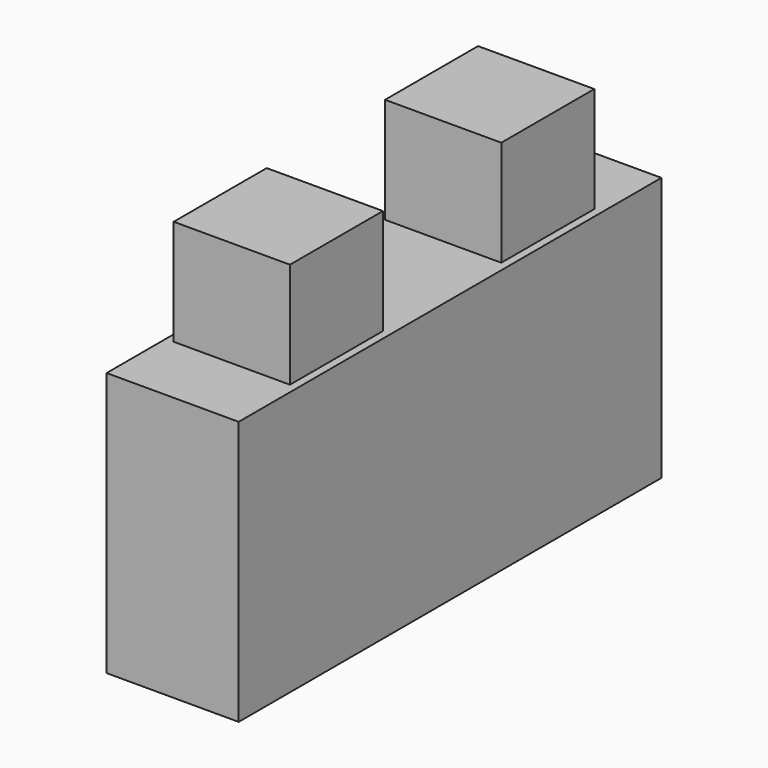
from build123d import *

# Parameters (mm, degrees)
BOX_W             = 10
BOX_H             = 10
BOX_DEPTH         = 10
SKETCH_W          = 4.4
SKETCH_H          = 4.4
PAD_DEPTH         = 4
PAD_FACE1_W       = 10
PAD_FACE1_H       = 10
POCKET_DEPTH      = 2.5
POCKET_FACE3_W    = 10
POCKET_FACE3_H    = 10
POCKET001_DEPTH   = 2.5
POCKET001_FACE6_W = 5
POCKET001_FACE6_H = 10
PAD001_DEPTH      = 10
SKETCH001_W       = 4.4
SKETCH001_H       = 4.4
PAD002_DEPTH      = 4
PAD002_FACE3_W    = 10
PAD002_FACE3_H    = 10
PAD003_DEPTH      = 10
PAD003_FACE16_W   = 10
PAD003_FACE16_H   = 10
PAD004_DEPTH      = 10
PAD004_FACE19_W   = 10
PAD004_FACE19_H   = 10
POCKET002_DEPTH   = 10
POCKET002_FACE9_W = 10
POCKET002_FACE9_H = 10
POCKET003_DEPTH   = 10


with BuildPart() as part:
    # Box → Box (new body)
    with BuildSketch(Plane.XY):
        with Locations((5, 5)):
            Rectangle(BOX_W, BOX_H)
    extrude(amount=BOX_DEPTH)

    # Sketch (on Face6 of BaseFeature) → Pad (new body)
    with BuildSketch(Plane.XY.offset(10)):
        with Locations((5, 5)):
            Rectangle(SKETCH_W, SKETCH_H)
    extrude(amount=PAD_DEPTH)

    # Pad Face1 → Pocket (cut)
    with BuildSketch(Plane(origin=(0, 5, 5), x_dir=(0, 1, 0), z_dir=(-1, 0, 0))):
        Rectangle(PAD_FACE1_W, PAD_FACE1_H)
    extrude(amount=-POCKET_DEPTH, mode=Mode.SUBTRACT)

    # Pocket Face3 → Pocket001 (cut)
    with BuildSketch(Plane(origin=(10, 5, 5), x_dir=(0, -1, 0), z_dir=(1, 0, 0))):
        Rectangle(POCKET_FACE3_W, POCKET_FACE3_H)
    extrude(amount=-POCKET001_DEPTH, mode=Mode.SUBTRACT)

    # Pocket001 Face6 → Pad001 (add)
    with BuildSketch(Plane(origin=(5, 10, 5), x_dir=(1, 0, 0), z_dir=(0, 1, 0))):
        Rectangle(POCKET001_FACE6_W, POCKET001_FACE6_H)
    extrude(amount=PAD001_DEPTH)

    # Sketch001 (on Face8 of Pad001) → Pad002 (join)
    with BuildSketch(Plane.XY.offset(10)):
        with Locations((5, 15)):
            Rectangle(SKETCH001_W, SKETCH001_H)
    extrude(amount=PAD002_DEPTH)

    # Pad002 Face3 → Pad003 (add)
    with BuildSketch(Plane(origin=(7.5, 5, 5), x_dir=(0, -1, 0), z_dir=(1, 0, 0))):
        Rectangle(PAD002_FACE3_W, PAD002_FACE3_H)
    extrude(amount=PAD003_DEPTH)

    # Pad003 Face16 → Pad004 (add)
    with BuildSketch(Plane(origin=(7.5, 15, 5), x_dir=(0, -1, 0), z_dir=(1, 0, 0))):
        Rectangle(PAD003_FACE16_W, PAD003_FACE16_H)
    extrude(amount=PAD004_DEPTH)

    # Pad004 Face19 → Pocket002 (cut)
    with BuildSketch(Plane(origin=(17.5, 15, 5), x_dir=(0, -1, 0), z_dir=(1, 0, 0))):
        Rectangle(PAD004_FACE19_W, PAD004_FACE19_H)
    extrude(amount=-POCKET002_DEPTH, mode=Mode.SUBTRACT)

    # Pocket002 Face9 → Pocket003 (cut)
    with BuildSketch(Plane(origin=(17.5, 5, 5), x_dir=(0, -1, 0), z_dir=(1, 0, 0))):
        Rectangle(POCKET002_FACE9_W, POCKET002_FACE9_H)
    extrude(amount=-POCKET003_DEPTH, mode=Mode.SUBTRACT)


solid = part.part
